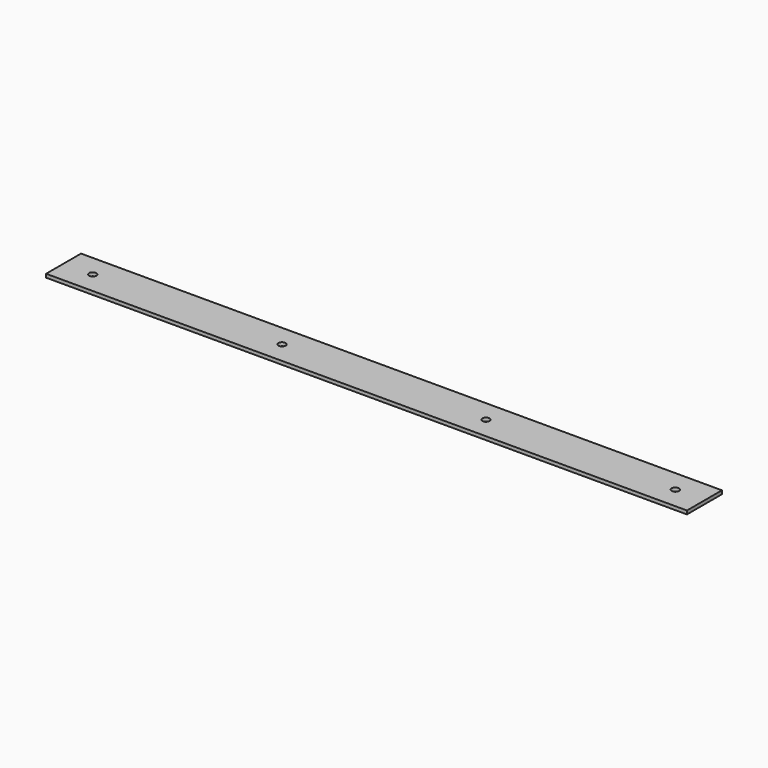
from build123d import *

# Parameters (mm, degrees)
SKETCH_W     = 220
SKETCH_H     = 15
PAD_DEPTH    = 1.2
SKETCH001_R  = 1.25
POCKET_DEPTH = 1.201


with BuildPart() as part:
    # Sketch → Pad (new body)
    with BuildSketch(Plane.XY):
        with Locations((110, 7.5)):
            Rectangle(SKETCH_W, SKETCH_H)
    extrude(amount=PAD_DEPTH)

    # Sketch001 (on Face6 of Pad) → Pocket (cut, through all)
    with BuildSketch(Plane.XY.offset(1.2)):
        with Locations((10, 7.5)):
            Circle(SKETCH001_R)
        with Locations((210, 7.5)):
            Circle(SKETCH001_R)
        with Locations((75, 7.5)):
            Circle(SKETCH001_R)
        with Locations((145, 7.5)):
            Circle(SKETCH001_R)
    extrude(amount=-POCKET_DEPTH, mode=Mode.SUBTRACT)


solid = part.part
